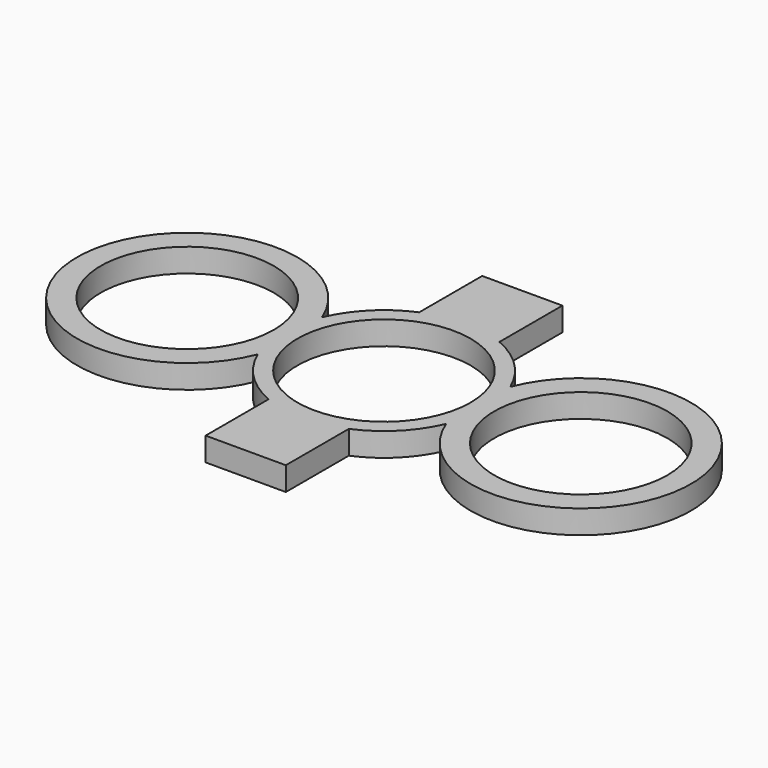
from build123d import *

# Parameters (mm, degrees)
F0_R     = 11
F0_W     = 10.189878
F0_H     = 10
F1_DEPTH = 3


with BuildPart() as f1:
    # F0 (on Top) → F1 (new body)
    with BuildSketch(Plane.XY):
        with BuildLine():
            Line((5.094939, 11.96), (-5.094939, 11.96))
            ThreePointArc((-5.094939, 11.96), (-9.192388, 9.192388), (-11.96, 5.094939))
            ThreePointArc((-11.96, 5.094939), (-39, 0), (-11.96, -5.094939))
            ThreePointArc((-11.96, -5.094939), (-9.192388, -9.192388), (-5.094939, -11.96))
            Line((-5.094939, -11.96), (5.094939, -11.96))
            ThreePointArc((5.094939, -11.96), (9.192388, -9.192388), (11.96, -5.094939))
            ThreePointArc((11.96, -5.094939), (39, 0), (11.96, 5.094939))
            ThreePointArc((11.96, 5.094939), (9.192388, 9.192388), (5.094939, 11.96))
        make_face()
        with Locations((-25, 0)):
            Circle(F0_R, mode=Mode.SUBTRACT)
        Circle(F0_R, mode=Mode.SUBTRACT)
        with Locations((25, 0)):
            Circle(F0_R, mode=Mode.SUBTRACT)
        with Locations((0, 16.96)):
            Rectangle(F0_W, F0_H)
        with Locations((0, -16.96)):
            Rectangle(F0_W, F0_H)
    extrude(amount=F1_DEPTH)


solid = f1.part
